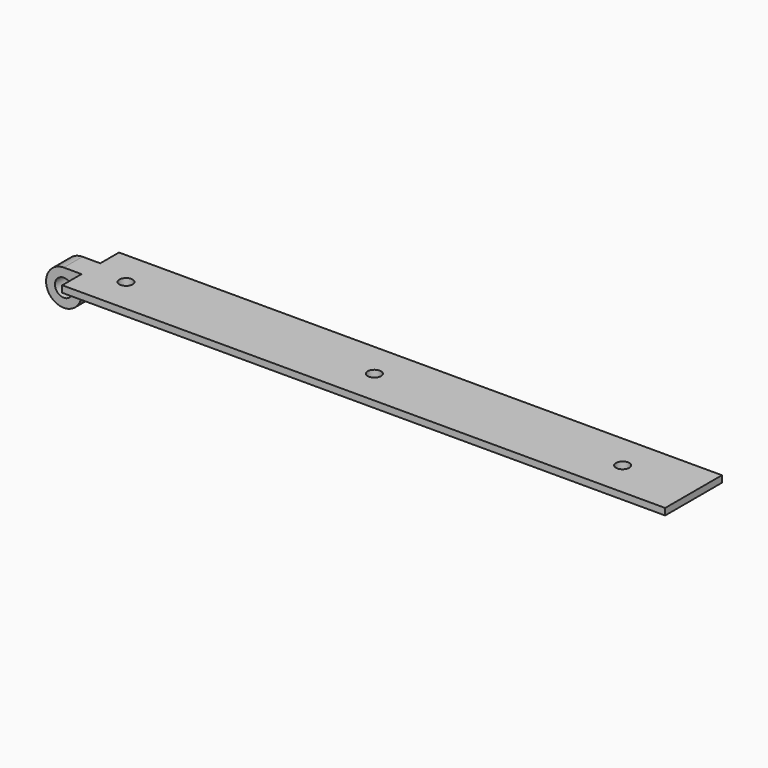
from build123d import *

# Parameters (mm, degrees)
F0_R     = 3.175
F1_DEPTH = 25.4
F2_R     = 2.38125
F3_DEPTH = 12.701
F4_SIZE2 = 0.79375
F4_SIZE  = 3.175


with BuildPart() as f1:
    # F0 (on Front) → F1 (new body)
    with BuildSketch(Plane.XZ):
        with BuildLine():
            ThreePointArc((6.35, 3.175), (3.175, -8.674261314), (11.849261314, 0))
            Line((11.849261314, 0), (228.6, 0))
            Line((228.6, 0), (228.6, 3.175))
            Line((228.6, 3.175), (6.35, 3.175))
        make_face()
        with Locations((6.35, -3.175)):
            Circle(F0_R, mode=Mode.SUBTRACT)
    extrude(amount=F1_DEPTH)

    # F2 (on face) → F3 (cut, through all)
    with BuildSketch(Plane.XY.offset(3.175)):
        with Locations((203.2, -12.7)):
            Circle(F2_R)
        with Locations((114.3, -12.7)):
            Circle(F2_R)
        with Locations((25.4, -12.7)):
            Circle(F2_R)
        Polygon((12.7, -8.382), (12.7, 5.4248190135), (-5.8604556464, 5.4248190135), (-5.8604556464, -32.8125189408), (12.7, -32.8125189408), (12.7, -16.764), (0, -16.764), (0, -8.382), align=None)
    extrude(amount=-F3_DEPTH, mode=Mode.SUBTRACT)

    # F4
    f4_edges = [f1.edges().sort_by_distance(p)[0] for p in [
        (120.65, -25.4, 0),
        (120.65, 0, 0),
        (228.6, -12.7, 0),
    ]]
    f4_side = f1.faces().sort_by_distance((120.570284, -12.699833, 0))[0]
    chamfer(f4_edges, length=F4_SIZE, length2=F4_SIZE2, reference=f4_side)


solid = f1.part
